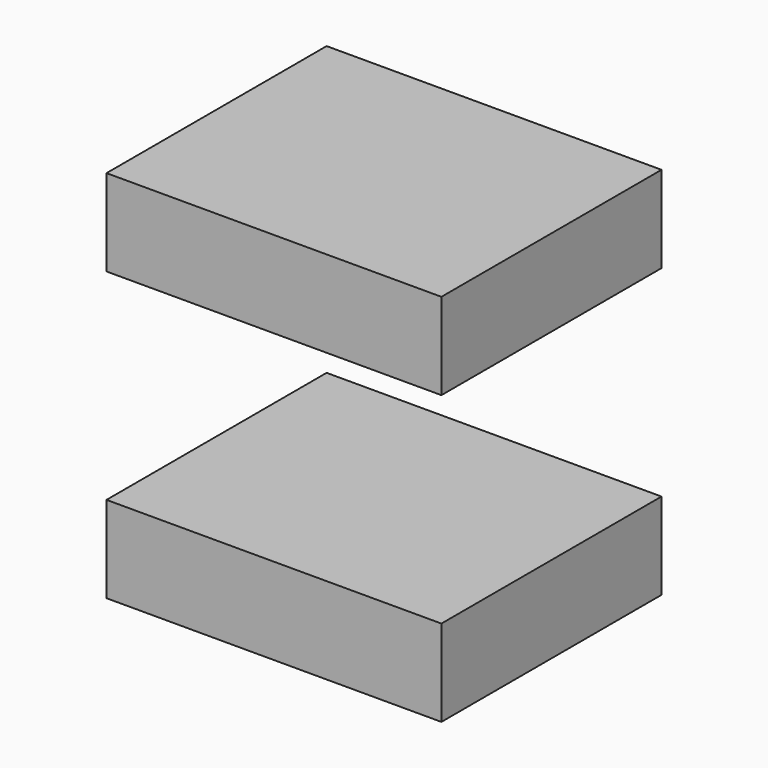
from build123d import *

# Parameters (mm, degrees)
F0_W     = 98.2321351767
F0_H     = 80.6963443756
F1_DEPTH = 25.4


with BuildPart() as f1:
    # F0 (on Top) → F1 (new body)
    with BuildSketch(Plane.XY):
        with Locations((8.7805315852, -3.2291412354)):
            Rectangle(F0_W, F0_H)
    extrude(amount=F1_DEPTH)


with BuildPart() as f2_1:
    # F2: copy of F1
    add(f1.part)


with BuildPart() as f1_1:
    # F3: moved
    add(f1.part.moved(Location((0, 0, 84.3732729554))))


solid = Compound([f2_1.part, f1_1.part])
